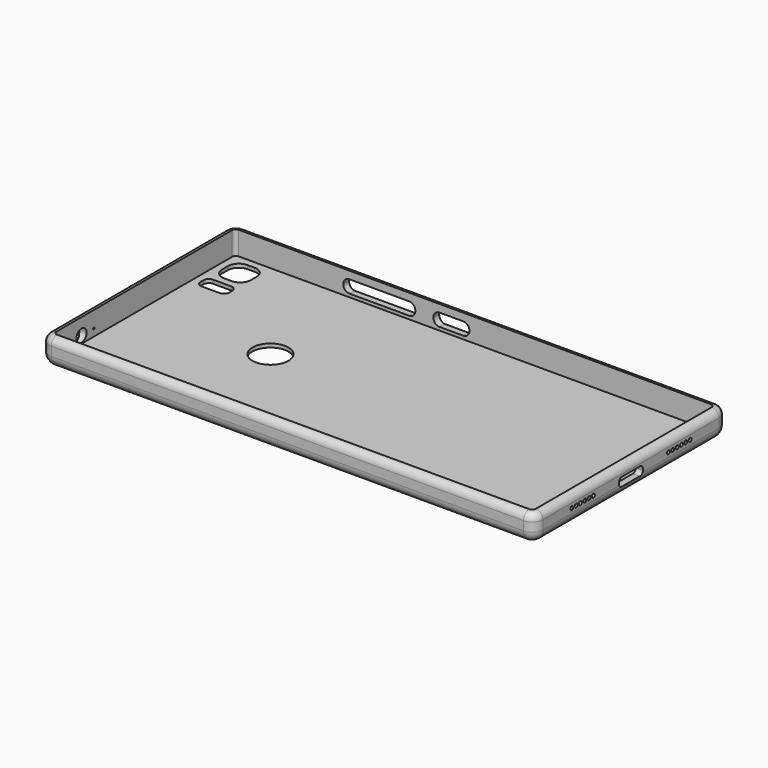
from build123d import *

# Parameters (mm, degrees)
BOX028_W          = 10
BOX028_H          = 10
BOX028_DEPTH      = 3.5
FILLET018_R       = 1.7
BOX029_W          = 20
BOX029_H          = 10
BOX029_DEPTH      = 3.5
FILLET019_R       = 1.7
CYLINDER029_R     = 5
CYLINDER029_DEPTH = 10
CYLINDER027_R     = 0.25
CYLINDER027_DEPTH = 10
CYLINDER026_R     = 1.75
CYLINDER026_DEPTH = 10
BOX023_W          = 6.65
BOX023_H          = 8.3
BOX023_DEPTH      = 2.45
FILLET014_R       = 1
CYLINDER022_R     = 0.5
CYLINDER022_DEPTH = 10
CYLINDER023_R     = 0.5
CYLINDER023_DEPTH = 10
CYLINDER024_R     = 0.5
CYLINDER024_DEPTH = 10
CYLINDER021_R     = 0.5
CYLINDER021_DEPTH = 10
CYLINDER020_R     = 0.5
CYLINDER020_DEPTH = 10
CYLINDER019_R     = 0.5
CYLINDER019_DEPTH = 10
CYLINDER018_R     = 0.5
CYLINDER018_DEPTH = 10
CYLINDER017_R     = 0.5
CYLINDER017_DEPTH = 10
CYLINDER016_R     = 0.5
CYLINDER016_DEPTH = 10
CYLINDER015_R     = 0.5
CYLINDER015_DEPTH = 10
CYLINDER014_R     = 0.5
CYLINDER014_DEPTH = 10
CYLINDER013_R     = 0.5
CYLINDER013_DEPTH = 10
BOX021_W          = 8
BOX021_H          = 4
BOX021_DEPTH      = 10
FILLET012_R       = 1.5
BOX019_W          = 8
BOX019_H          = 8
BOX019_DEPTH      = 10
FILLET010_R       = 3
BOX001_W          = 133
BOX001_H          = 63
BOX001_DEPTH      = 10
FILLET002_R       = 1
BOX_W             = 137
BOX_H             = 67
BOX_DEPTH         = 7.5
FILLET_R          = 3
FILLET001_R       = 2


with BuildPart() as fillet018:
    # Box028 → Box028 (new body)
    with BuildSketch(Plane(origin=(57, 60, 2.5), x_dir=(1, 0, 0), z_dir=(0, 0, 1))):
        with Locations((5, 5)):
            Rectangle(BOX028_W, BOX028_H)
    extrude(amount=BOX028_DEPTH)

    # Fillet018
    fillet018_edges = [fillet018.edges().sort_by_distance(p)[0] for p in [
        (57, 65, 6),
        (57, 65, 2.5),
        (67, 65, 6),
        (67, 65, 2.5),
    ]]
    fillet(fillet018_edges, radius=FILLET018_R)


with BuildPart() as fillet018_1:
    # Fillet018 placement: moved
    add(fillet018.part.moved(Location((0, 0, -0.6))))


with BuildPart() as fillet019:
    # Box029 → Box029 (new body)
    with BuildSketch(Plane(origin=(57, 60, 2.5), x_dir=(1, 0, 0), z_dir=(0, 0, 1))):
        with Locations((10, 5)):
            Rectangle(BOX029_W, BOX029_H)
    extrude(amount=BOX029_DEPTH)

    # Fillet019
    fillet019_edges = [fillet019.edges().sort_by_distance(p)[0] for p in [
        (57, 65, 6),
        (57, 65, 2.5),
        (77, 65, 6),
        (77, 65, 2.5),
    ]]
    fillet(fillet019_edges, radius=FILLET019_R)


with BuildPart() as fillet019_1:
    # Fillet019 placement: moved
    add(fillet019.part.moved(Location((-25, 0, -0.6))))


with BuildPart() as cilindro027:
    # Cylinder029 → Cylinder029 (new body)
    with BuildSketch(Plane(origin=(37, 33.5, -1), x_dir=(1, 0, 0), z_dir=(0, 0, 1))):
        Circle(CYLINDER029_R)
    extrude(amount=CYLINDER029_DEPTH)


with BuildPart() as cilindro025:
    # Cylinder027 → Cylinder027 (new body)
    with BuildSketch(Plane(origin=(0, 16, 3), x_dir=(0, 1, 0), z_dir=(1, 0, 0))):
        Circle(CYLINDER027_R)
    extrude(amount=CYLINDER027_DEPTH)


with BuildPart() as phones:
    # Cylinder026 → Cylinder026 (new body)
    with BuildSketch(Plane(origin=(-2, 11.75, 3), x_dir=(0, 1, 0), z_dir=(1, 0, 0))):
        Circle(CYLINDER026_R)
    extrude(amount=CYLINDER026_DEPTH)


with BuildPart() as usb_c:
    # Box023 → Box023 (new body)
    with BuildSketch(Plane.XY):
        with Locations((3.325, 4.15)):
            Rectangle(BOX023_W, BOX023_H)
    extrude(amount=BOX023_DEPTH)

    # Fillet014
    fillet014_edges = [usb_c.edges().sort_by_distance(p)[0] for p in [
        (3.325, 0, 0),
        (3.325, 0, 2.45),
        (3.325, 8.3, 0),
        (3.325, 8.3, 2.45),
    ]]
    fillet(fillet014_edges, radius=FILLET014_R)


with BuildPart() as usb_c_1:
    # Fillet014 placement: moved
    add(usb_c.part.moved(Location((132, 29.35, 2.4))))


with BuildPart() as cilindro022:
    # Cylinder022 → Cylinder022 (new body)
    with BuildSketch(Plane(origin=(130, 52.5, 4.25), x_dir=(0, 1, 0), z_dir=(1, 0, 0))):
        Circle(CYLINDER022_R)
    extrude(amount=CYLINDER022_DEPTH)


with BuildPart() as cilindro023:
    # Cylinder023 → Cylinder023 (new body)
    with BuildSketch(Plane(origin=(130, 51, 4.25), x_dir=(0, 1, 0), z_dir=(1, 0, 0))):
        Circle(CYLINDER023_R)
    extrude(amount=CYLINDER023_DEPTH)


with BuildPart() as fusion008:
    # Cylinder024 → Cylinder024 (new body)
    with BuildSketch(Plane(origin=(130, 54, 4.25), x_dir=(0, 1, 0), z_dir=(1, 0, 0))):
        Circle(CYLINDER024_R)
    extrude(amount=CYLINDER024_DEPTH)

    # Fusion009: union Cilindro022, Cilindro023
    add(cilindro022.part)
    add(cilindro023.part)


with BuildPart() as fusion008_1:
    # Fusion009 placement: moved
    add(fusion008.part.moved(Location((0, -33.5, 0))))


with BuildPart() as cilindro021:
    # Cylinder021 → Cylinder021 (new body)
    with BuildSketch(Plane(origin=(130, 52.5, 4.25), x_dir=(0, 1, 0), z_dir=(1, 0, 0))):
        Circle(CYLINDER021_R)
    extrude(amount=CYLINDER021_DEPTH)


with BuildPart() as cilindro020:
    # Cylinder020 → Cylinder020 (new body)
    with BuildSketch(Plane(origin=(130, 51, 4.25), x_dir=(0, 1, 0), z_dir=(1, 0, 0))):
        Circle(CYLINDER020_R)
    extrude(amount=CYLINDER020_DEPTH)


with BuildPart() as agujero_micro:
    # Cylinder019 → Cylinder019 (new body)
    with BuildSketch(Plane(origin=(130, 54, 4.25), x_dir=(0, 1, 0), z_dir=(1, 0, 0))):
        Circle(CYLINDER019_R)
    extrude(amount=CYLINDER019_DEPTH)

    # Fusion008: union Cilindro021, Cilindro020
    add(cilindro021.part)
    add(cilindro020.part)


with BuildPart() as agujero_micro_1:
    # Fusion008 placement: moved
    add(agujero_micro.part.moved(Location((0, -38, 0))))

    # Fusion010: union Fusion008
    add(fusion008_1.part)


with BuildPart() as cilindro018:
    # Cylinder018 → Cylinder018 (new body)
    with BuildSketch(Plane(origin=(130, 52.5, 4.25), x_dir=(0, 1, 0), z_dir=(1, 0, 0))):
        Circle(CYLINDER018_R)
    extrude(amount=CYLINDER018_DEPTH)


with BuildPart() as cilindro017:
    # Cylinder017 → Cylinder017 (new body)
    with BuildSketch(Plane(origin=(130, 51, 4.25), x_dir=(0, 1, 0), z_dir=(1, 0, 0))):
        Circle(CYLINDER017_R)
    extrude(amount=CYLINDER017_DEPTH)


with BuildPart() as fusion006:
    # Cylinder016 → Cylinder016 (new body)
    with BuildSketch(Plane(origin=(130, 54, 4.25), x_dir=(0, 1, 0), z_dir=(1, 0, 0))):
        Circle(CYLINDER016_R)
    extrude(amount=CYLINDER016_DEPTH)

    # Fusion006: union Cilindro018, Cilindro017
    add(cilindro018.part)
    add(cilindro017.part)


with BuildPart() as fusion006_1:
    # Fusion006 placement: moved
    add(fusion006.part.moved(Location((0, -4.5, 0))))


with BuildPart() as cilindro015:
    # Cylinder015 → Cylinder015 (new body)
    with BuildSketch(Plane(origin=(130, 52.5, 4.25), x_dir=(0, 1, 0), z_dir=(1, 0, 0))):
        Circle(CYLINDER015_R)
    extrude(amount=CYLINDER015_DEPTH)


with BuildPart() as cilindro014:
    # Cylinder014 → Cylinder014 (new body)
    with BuildSketch(Plane(origin=(130, 51, 4.25), x_dir=(0, 1, 0), z_dir=(1, 0, 0))):
        Circle(CYLINDER014_R)
    extrude(amount=CYLINDER014_DEPTH)


with BuildPart() as obj1:
    # Cylinder013 → Cylinder013 (new body)
    with BuildSketch(Plane(origin=(130, 54, 4.25), x_dir=(0, 1, 0), z_dir=(1, 0, 0))):
        Circle(CYLINDER013_R)
    extrude(amount=CYLINDER013_DEPTH)

    # Fusion005: union Cilindro015, Cilindro014
    add(cilindro015.part)
    add(cilindro014.part)

    # Fusion007: union Fusion006
    add(fusion006_1.part)


with BuildPart() as fillet012:
    # Box021 → Box021 (new body)
    with BuildSketch(Plane(origin=(4, 55, -1), x_dir=(1, 0, 0), z_dir=(0, 0, 1))):
        with Locations((4, 2)):
            Rectangle(BOX021_W, BOX021_H)
    extrude(amount=BOX021_DEPTH)

    # Fillet012
    fillet012_edges = [fillet012.edges().sort_by_distance(p)[0] for p in [
        (4, 55, 4),
        (4, 59, 4),
        (12, 55, 4),
        (12, 59, 4),
    ]]
    fillet(fillet012_edges, radius=FILLET012_R)


with BuildPart() as fillet012_1:
    # Fillet012 placement: moved
    add(fillet012.part.moved(Location((0, -6, 0))))


with BuildPart() as fillet010:
    # Box019 → Box019 (new body)
    with BuildSketch(Plane(origin=(4, 55, -1), x_dir=(1, 0, 0), z_dir=(0, 0, 1))):
        with Locations((4, 4)):
            Rectangle(BOX019_W, BOX019_H)
    extrude(amount=BOX019_DEPTH)

    # Fillet010
    fillet010_edges = [fillet010.edges().sort_by_distance(p)[0] for p in [
        (4, 55, 4),
        (4, 63, 4),
        (12, 55, 4),
        (12, 63, 4),
    ]]
    fillet(fillet010_edges, radius=FILLET010_R)


with BuildPart() as fillet002:
    # Box001 → Box001 (new body)
    with BuildSketch(Plane(origin=(2, 2, 5.5), x_dir=(1, 0, 0), z_dir=(0, 0, 1))):
        with Locations((66.5, 31.5)):
            Rectangle(BOX001_W, BOX001_H)
    extrude(amount=BOX001_DEPTH)

    # Fillet002
    fillet002_edges = [fillet002.edges().sort_by_distance(p)[0] for p in [
        (2, 2, 10.5),
        (2, 65, 10.5),
        (135, 2, 10.5),
        (135, 65, 10.5),
    ]]
    fillet(fillet002_edges, radius=FILLET002_R)


with BuildPart() as fillet002_1:
    # Fillet002 placement: moved
    add(fillet002.part.moved(Location((0, 0, -4.5))))


with BuildPart() as cut037:
    # Box → Box (new body)
    with BuildSketch(Plane.XY):
        with Locations((68.5, 33.5)):
            Rectangle(BOX_W, BOX_H)
    extrude(amount=BOX_DEPTH)

    # Fillet
    fillet_edges = [cut037.edges().sort_by_distance(p)[0] for p in [
        (0, 0, 3.75),
        (0, 67, 3.75),
        (0, 33.5, 0),
        (137, 0, 3.75),
        (137, 67, 3.75),
        (137, 33.5, 0),
        (68.5, 0, 0),
        (68.5, 67, 0),
    ]]
    fillet(fillet_edges, radius=FILLET_R)

    # Fillet001
    fillet001_edges = [cut037.edges().sort_by_distance(p)[0] for p in [
        (0, 33.5, 7.5),
        (0.87868, 0.87868, 7.5),
        (68.5, 0, 7.5),
        (68.5, 67, 7.5),
        (136.12132, 0.87868, 7.5),
        (136.12132, 66.12132, 7.5),
        (137, 33.5, 7.5),
    ]]
    fillet(fillet001_edges, radius=FILLET001_R)

    # Cut: cut Fillet002
    add(fillet002_1.part, mode=Mode.SUBTRACT)

    # Cut024: cut Fillet010
    add(fillet010.part, mode=Mode.SUBTRACT)

    # Cut025: cut Fillet012
    add(fillet012_1.part, mode=Mode.SUBTRACT)

    # Cut026: cut obj1
    add(obj1.part, mode=Mode.SUBTRACT)

    # Cut027: cut Agujero Micro
    add(agujero_micro_1.part, mode=Mode.SUBTRACT)

    # Cut028: cut USB-C
    add(usb_c_1.part, mode=Mode.SUBTRACT)

    # Cut029: cut phones
    add(phones.part, mode=Mode.SUBTRACT)

    # Cut031: cut Cilindro025
    add(cilindro025.part, mode=Mode.SUBTRACT)

    # Cut034: cut Cilindro027
    add(cilindro027.part, mode=Mode.SUBTRACT)

    # Cut036: cut Fillet019
    add(fillet019_1.part, mode=Mode.SUBTRACT)

    # Cut037: cut Fillet018
    add(fillet018_1.part, mode=Mode.SUBTRACT)


solid = cut037.part
